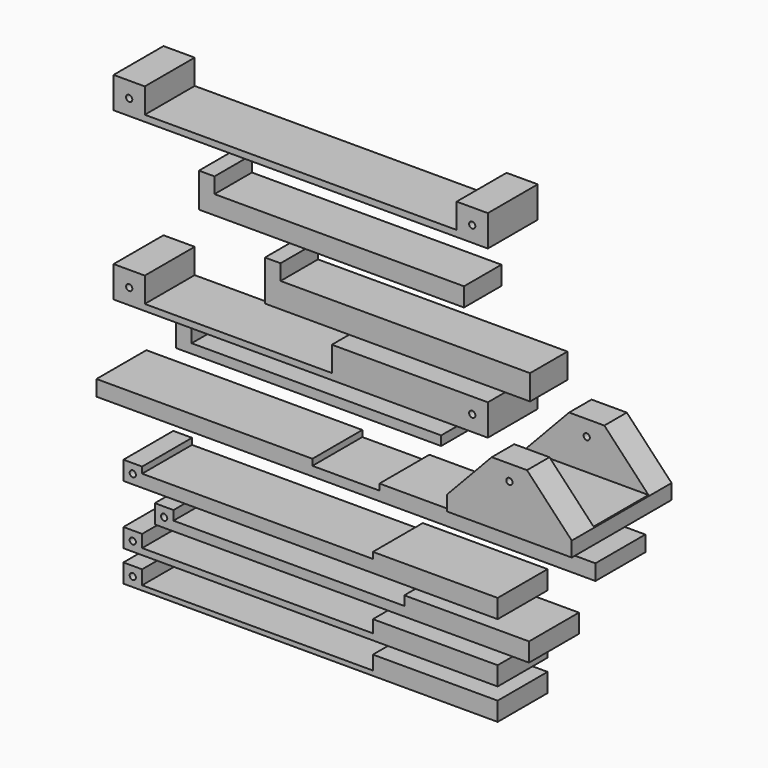
from build123d import *

# Parameters (mm, degrees)
F1_DEPTH  = 25.4
F2_R      = 1.27
F3_DEPTH  = 25.4
F4_R      = 1.27
F5_DEPTH  = 50.8
F6_W      = 50.8
F6_H      = 27.94
F7_DEPTH  = 19.05
F13_DEPTH = 50.8
F15_R     = 1.27
F18_DEPTH = 25.4
F14_R     = 1.27
F16_R     = 1.27
F17_R     = 1.27
F20_DEPTH = 19.05
F22_DEPTH = 19.05
F24_DEPTH = 19.05


with BuildPart() as f1:
    # F0 (on Front) → F1 (new body)
    with BuildSketch(Plane.XZ):
        Polygon((-69.5430117831, -12.6637444313), (-69.5430117831, -19.0137444313), (133.6569882169, -19.0137444313), (133.6569882169, -12.6637444313), (45.7047484562, -12.6637444313), (45.7047484562, -15.2037444313), (18.4092279777, -15.2037444313), (18.4092279777, -12.6637444313), align=None)
    extrude(amount=F1_DEPTH)


with BuildPart() as f3:
    # F2 (on Front) → F3 (new body)
    with BuildSketch(Plane.XZ):
        Polygon((-62.5643167377, 30.8042386507), (-62.5643167377, 18.1042386507), (89.8356832623, 18.1042386507), (89.8356832623, 30.8042386507), (77.1356832623, 30.8042386507), (77.1356832623, 20.6442386507), (-49.8643167377, 20.6442386507), (-49.8643167377, 30.8042386507), align=None)
        with Locations((-56.2143167377, 24.4542386507)):
            Circle(F2_R, mode=Mode.SUBTRACT)
        with Locations((83.4856832623, 24.4542386507)):
            Circle(F2_R, mode=Mode.SUBTRACT)
    extrude(amount=F3_DEPTH)


with BuildPart() as f5:
    # F4 (on Front) → F5 (new body)
    with BuildSketch(Plane.XZ):
        Polygon((126.1069186831, 28.5960263943), (111.7504065966, 28.5960263943), (93.5286626398, 9.2699393481), (93.5286626398, 3.1960263943), (144.3286626398, 3.1960263943), (144.3286626398, 9.2699393481), align=None)
        with Locations((118.9286626398, 22.2460263943)):
            Circle(F4_R, mode=Mode.SUBTRACT)
    extrude(amount=F5_DEPTH)

    # F6 (on face) → F7 (cut)
    with BuildSketch(Plane.XY.offset(28.5960263943)):
        with Locations((118.9286626398, -25.4)):
            Rectangle(F6_W, F6_H)
    extrude(amount=-F7_DEPTH, mode=Mode.SUBTRACT)


with BuildPart() as f8_1:
    # F8: copy of F5
    add(f5.part.moved(Location((60.96, 0, 0))))


with BuildPart() as f9_1:
    # F9: copy of F3
    add(f3.part.moved(Location((0, 0, 67.818))))


with BuildPart() as f10_1:
    # F10: copy of F3
    add(f3.part.moved(Location((0, 0, 33.782))))


with BuildPart() as f3_1:
    add(f3.part)

    # F13 (add): a face of the model
    f13_faces = [f3_1.faces().sort_by_distance(p)[0] for p in [
        (77.1356832623, -12.7, 25.7242386507),
    ]]
    extrude(f13_faces, amount=F13_DEPTH)


with BuildPart() as f18:
    # F15 (on Front) → F18 (new body)
    with BuildSketch(Plane.XZ):
        Polygon((-50.9411111111, -38.0243832266), (-58.5611111111, -38.0243832266), (-58.5611111111, -45.6443832266), (93.8388888889, -45.6443832266), (93.8388888889, -38.0243832266), (43.0388888889, -38.0243832266), (43.0388888889, -40.5643832266), (-50.9411111111, -40.5643832266), align=None)
        with Locations((-54.7511111111, -41.8343832266)):
            Circle(F15_R, mode=Mode.SUBTRACT)
    extrude(amount=F18_DEPTH)


with BuildPart() as f18b:
    # F14 (on Front) → F18, piece 2 (new body)
    with BuildSketch(Plane.XZ):
        Polygon((-38.1687856736, -49.4543832266), (-45.7887856736, -49.4543832266), (-45.7887856736, -57.0743832266), (106.6112143264, -57.0743832266), (106.6112143264, -49.4543832266), (55.8112143264, -49.4543832266), (55.8112143264, -53.2643832266), (-38.1687856736, -53.2643832266), align=None)
        with Locations((-41.9787856736, -53.2643832266)):
            Circle(F14_R, mode=Mode.SUBTRACT)
    extrude(amount=F18_DEPTH)


with BuildPart() as f18c:
    # F16 (on Front) → F18, piece 3 (new body)
    with BuildSketch(Plane.XZ):
        Polygon((-50.9411111111, -62.1543832266), (-58.5611111111, -62.1543832266), (-58.5611111111, -69.7743832266), (93.8388888889, -69.7743832266), (93.8388888889, -62.1543832266), (43.0388888889, -62.1543832266), (43.0388888889, -67.2343832266), (-50.9411111111, -67.2343832266), align=None)
        with Locations((-54.7511111111, -65.9643832266)):
            Circle(F16_R, mode=Mode.SUBTRACT)
    extrude(amount=F18_DEPTH)


with BuildPart() as f18d:
    # F17 (on Front) → F18, piece 4 (new body)
    with BuildSketch(Plane.XZ):
        Polygon((-50.9411111111, -74.8543832266), (-58.5611111111, -74.8543832266), (-58.5611111111, -82.4743832266), (93.8388888889, -82.4743832266), (93.8388888889, -74.8543832266), (43.0388888889, -74.8543832266), (43.0388888889, -80.5693832266), (-50.9411111111, -80.5693832266), align=None)
        with Locations((-54.7511111111, -78.6643832266)):
            Circle(F17_R, mode=Mode.SUBTRACT)
    extrude(amount=F18_DEPTH)


with BuildPart() as f20:
    # F19 (on Front) → F20 (new body)
    with BuildSketch(Plane.XZ):
        Polygon((-32.9010033903, 71.360236788), (-32.9010033903, 57.390236788), (75.0489966097, 57.390236788), (75.0489966097, 65.010236788), (-26.5510033903, 65.010236788), (-26.5510033903, 71.360236788), align=None)
    extrude(amount=F20_DEPTH)


with BuildPart() as f22:
    # F21 (on Front) → F22 (new body)
    with BuildSketch(Plane.XZ):
        Polygon((101.9416201909, 42.6112421268), (0.3416201909, 42.6112421268), (0.3416201909, 48.9612421268), (-6.0083798091, 48.9612421268), (-6.0083798091, 32.4512421268), (101.9416201909, 32.4512421268), align=None)
    extrude(amount=F22_DEPTH)


with BuildPart() as f24:
    # F23 (on Front) → F24 (new body)
    with BuildSketch(Plane.XZ):
        Polygon((65.7456129773, 8.5223421121), (-35.8543870227, 8.5223421121), (-35.8543870227, 14.8723421121), (-42.2043870227, 14.8723421121), (-42.2043870227, 4.7123421121), (65.7456129773, 4.7123421121), align=None)
    extrude(amount=F24_DEPTH)


solid = Compound([f1.part, f5.part, f9_1.part, f3_1.part, f18.part, f18b.part, f18c.part, f18d.part, f20.part, f22.part, f24.part])
